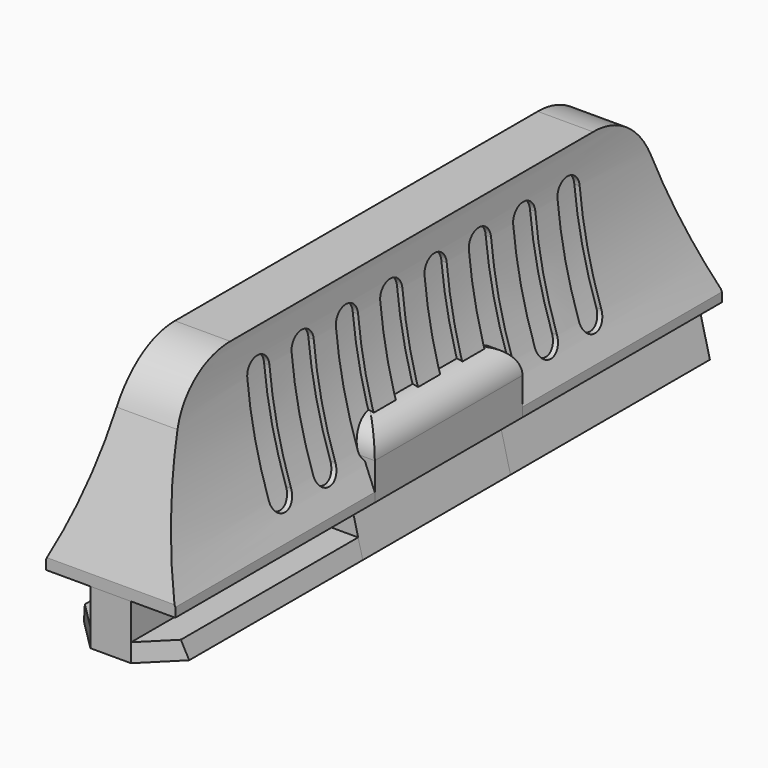
from build123d import *

# Parameters (mm, degrees)
BOX001_W            = 10
BOX001_H            = 37
BOX001_DEPTH        = 13.075
POCKET001_DEPTH     = 10.001
LINEARPATTERN_COUNT = 8
LINEARPATTERN_PITCH = 3
PAD001_DEPTH        = 18.5
BOX_W               = 10
BOX_H               = 37
BOX_DEPTH           = 13.075
POCKET_DEPTH        = 10.001
PAD_DEPTH           = 18.5
FILLET_R            = 4
SKETCH011_W         = 2.5
SKETCH011_H         = 25.2
POCKET007_DEPTH     = 5
PAD003_DEPTH        = 18.5
SKETCH008_W         = 4
SKETCH008_H         = 6
POCKET004_DEPTH     = 3.951
POCKET008_DEPTH     = 6.951
POCKET009_DEPTH     = 1
SKETCH004_W         = 7
SKETCH004_H         = 3.5
PAD002_DEPTH        = 5
FILLET001_R         = 1.5
SKETCH005_R         = 0.8
POCKET002_DEPTH     = 3.501
SKETCH006_R         = 1.925
POCKET003_DEPTH     = 1.85
SKETCH015_W         = 2.5
SKETCH015_H         = 8
POCKET010_DEPTH     = 1
PAD004_DEPTH        = 5
SKETCH016_W         = 1
SKETCH016_H         = 1.1
POCKET011_DEPTH     = 3.951
SKETCH017_R         = 0.6
POCKET012_DEPTH     = 3.201


with BuildPart() as f_06_groves_linearpattern:
    # Box001 → Box001 (new body)
    with BuildSketch(Plane(origin=(-5, -18.5, 0), x_dir=(1, 0, 0), z_dir=(0, 0, 1))):
        with Locations((5, 18.5)):
            Rectangle(BOX001_W, BOX001_H)
    extrude(amount=BOX001_DEPTH)

    # Sketch003 → Pocket001 (cut, through all)
    with BuildSketch(Plane(origin=(5, -18.5, 0), x_dir=(0, 1, 0), z_dir=(1, 0, 0))):
        with BuildLine():
            ThreePointArc((8.75, 10.825), (8, 11.575), (7.25, 10.825))
            Line((7.25, 10.825), (7.25, 5.325))
            ThreePointArc((7.25, 5.325), (8, 4.575), (8.75, 5.325))
            Line((8.75, 10.825), (8.75, 5.325))
        make_face()
    pocket001 = extrude(amount=-POCKET001_DEPTH, mode=Mode.SUBTRACT)

    # LinearPattern: Pocket001 ×8
    with Locations(*[(0, i * LINEARPATTERN_PITCH, 0) for i in range(1, LINEARPATTERN_COUNT)]):
        add(pocket001, mode=Mode.SUBTRACT)


with BuildPart() as f_07_groovestool_cut:
    # Sketch002 → Pad001 (new body, symmetric)
    with BuildSketch(Plane.XZ):
        with BuildLine():
            ThreePointArc((-3.774536, 3.695954), (-2.298993, 8.282682), (-1.8, 13.075))
            Line((-1.8, 13.075), (-1.2, 13.075))
            ThreePointArc((-3.225464, 3.454046), (-1.711862, 8.159077), (-1.2, 13.075))
            Line((-3.774536, 3.695954), (-3.225464, 3.454046))
        make_face()
        with BuildLine():
            ThreePointArc((1.8, 13.075), (2.298993, 8.282682), (3.774536, 3.695954))
            Line((3.225464, 3.454046), (3.774536, 3.695954))
            ThreePointArc((1.2, 13.075), (1.711862, 8.159077), (3.225464, 3.454046))
            Line((1.2, 13.075), (1.8, 13.075))
        make_face()
    extrude(amount=PAD001_DEPTH, both=True)

    # Cut: cut 06_Groves_LinearPattern
    add(f_06_groves_linearpattern.part, mode=Mode.SUBTRACT)


with BuildPart() as f_02_chamfer_pocket:
    # Box → Box (new body)
    with BuildSketch(Plane(origin=(-5, -18.5, 0), x_dir=(1, 0, 0), z_dir=(0, 0, 1))):
        with Locations((5, 18.5)):
            Rectangle(BOX_W, BOX_H)
    extrude(amount=BOX_DEPTH)

    # Sketch001 → Pocket (cut, through all)
    with BuildSketch(Plane(origin=(5, -18.5, 0), x_dir=(0, 1, 0), z_dir=(1, 0, 0))):
        Polygon((0, 3.557), (3.464269, 13.075), (33.535731, 13.075), (37, 3.557), (38, 3.557), (38, 14.075), (-1, 14.075), (-1, 3.557), align=None)
    extrude(amount=-POCKET_DEPTH, mode=Mode.SUBTRACT)


with BuildPart() as obj1:
    # Sketch → Pad (new body, symmetric)
    with BuildSketch(Plane.XZ):
        with BuildLine():
            Line((3.5, 2.95), (-3.5, 2.95))
            Line((-3.5, 2.95), (-3.5, 3.45))
            ThreePointArc((-3.5, 3.45), (-2.00542, 8.095878), (-1.5, 12.95))
            Line((-1.5, 12.95), (1.5, 12.95))
            ThreePointArc((1.5, 12.95), (2.00542, 8.095878), (3.5, 3.45))
            Line((3.5, 2.95), (3.5, 3.45))
        make_face()
    extrude(amount=PAD_DEPTH, both=True)

    # Common: intersect 02_Chamfer_Pocket
    add(f_02_chamfer_pocket.part, mode=Mode.INTERSECT)

    # Fillet
    fillet_edges = [obj1.edges().sort_by_distance(p)[0] for p in [
        (0, -15.081228, 12.95),
        (0, 15.081228, 12.95),
    ]]
    fillet(fillet_edges, radius=FILLET_R)

    # Cut001: cut 07_GroovesTool_Cut
    add(f_07_groovestool_cut.part, mode=Mode.SUBTRACT)

    # Sketch011 → Pocket007 (cut)
    with BuildSketch(Plane(origin=(0, 0, 2.95), x_dir=(1, 0, 0), z_dir=(0, 0, -1))):
        Rectangle(SKETCH011_W, SKETCH011_H)
    extrude(amount=-POCKET007_DEPTH, mode=Mode.SUBTRACT)


with BuildPart() as f_04_reducedthickness_pocket:
    # Sketch007 → Pad003 (new body, symmetric)
    with BuildSketch(Plane.XZ):
        Polygon((-2.85, 0), (-2.35, 2), (-1.1, 2), (-1.1, 6.95), (1.1, 6.95), (1.1, 2), (2.35, 2), (2.85, 0), align=None)
    extrude(amount=PAD003_DEPTH, both=True)

    # Sketch008 → Pocket004 (cut, through all)
    with BuildSketch(Plane(origin=(1.1, 0, 0), x_dir=(0, 0, 1), z_dir=(1, 0, 0))):
        with Locations((4.95, 15.5)):
            Rectangle(SKETCH008_W, SKETCH008_H)
        with Locations((4.95, -15.5)):
            Rectangle(SKETCH008_W, SKETCH008_H)
    extrude(amount=-POCKET004_DEPTH, mode=Mode.SUBTRACT)

    # Sketch012 → Pocket008 (cut, through all)
    with BuildSketch(Plane(origin=(0, 0, 0), x_dir=(1, 0, 0), z_dir=(0, 0, -1))):
        Polygon((-1.1, 18.5), (-3.85, 15.75), (-3.85, 19.5), (3.85, 19.5), (3.85, 15.75), (1.1, 18.5), align=None)
    extrude(amount=-POCKET008_DEPTH, mode=Mode.SUBTRACT)

    # Sketch013 → Pocket009 (cut)
    with BuildSketch(Plane(origin=(0, 0, 2), x_dir=(-1, 0, 0), z_dir=(0, 0, 1))):
        Polygon((-1.1, 0), (-1.1, 19.5), (1.1, 19.5), (1.1, 0), (3.35, 0), (3.35, 20.5), (-3.35, 20.5), (-3.35, 0), align=None)
    extrude(amount=-POCKET009_DEPTH, mode=Mode.SUBTRACT)


with BuildPart() as obj2:
    # Sketch004 → Pad002 (new body, symmetric)
    with BuildSketch(Plane.XZ):
        with Locations((0, 4.7)):
            Rectangle(SKETCH004_W, SKETCH004_H)
    extrude(amount=PAD002_DEPTH, both=True)

    # Fillet001
    fillet001_edges = [obj2.edges().sort_by_distance(p)[0] for p in [
        (-3.5, 0, 6.45),
        (0, 5, 6.45),
        (3.5, 0, 6.45),
        (0, -5, 6.45),
    ]]
    fillet(fillet001_edges, radius=FILLET001_R)

    # Sketch005 → Pocket002 (cut, through all)
    with BuildSketch(Plane(origin=(0, 0, 6.45), x_dir=(-1, 0, 0), z_dir=(0, 0, 1))):
        Circle(SKETCH005_R)
    extrude(amount=-POCKET002_DEPTH, mode=Mode.SUBTRACT)

    # Sketch006 → Pocket003 (cut)
    with BuildSketch(Plane(origin=(0, 0, 6.45), x_dir=(-1, 0, 0), z_dir=(0, 0, 1))):
        Circle(SKETCH006_R)
    extrude(amount=-POCKET003_DEPTH, mode=Mode.SUBTRACT)

    # Sketch015 → Pocket010 (cut)
    with BuildSketch(Plane(origin=(0, 0, 2.95), x_dir=(1, 0, 0), z_dir=(0, 0, -1))):
        Rectangle(SKETCH015_W, SKETCH015_H)
    extrude(amount=-POCKET010_DEPTH, mode=Mode.SUBTRACT)


with BuildPart() as f_03_screwholes_pocket:
    # Sketch014 → Pad004 (new body, symmetric)
    with BuildSketch(Plane.XZ):
        Polygon((-2.85, 0), (-2.35, 2), (-1.1, 2), (-1.1, 3.2), (1.1, 3.2), (1.1, 2), (2.35, 2), (2.85, 0), align=None)
    extrude(amount=PAD004_DEPTH, both=True)

    # Sketch016 → Pocket011 (cut, through all)
    with BuildSketch(Plane(origin=(-1.1, 0, 0), x_dir=(0, 0, -1), z_dir=(-1, 0, 0))):
        with Locations((-2.7, 4.45)):
            Rectangle(SKETCH016_W, SKETCH016_H)
        with Locations((-2.7, -4.45)):
            Rectangle(SKETCH016_W, SKETCH016_H)
    extrude(amount=-POCKET011_DEPTH, mode=Mode.SUBTRACT)

    # Sketch017 → Pocket012 (cut, through all)
    with BuildSketch(Plane(origin=(0, 0, 3.2), x_dir=(-1, 0, 0), z_dir=(0, 0, 1))):
        Circle(SKETCH017_R)
    extrude(amount=-POCKET012_DEPTH, mode=Mode.SUBTRACT)


solid = Compound([obj1.part, f_04_reducedthickness_pocket.part, obj2.part, f_03_screwholes_pocket.part])
